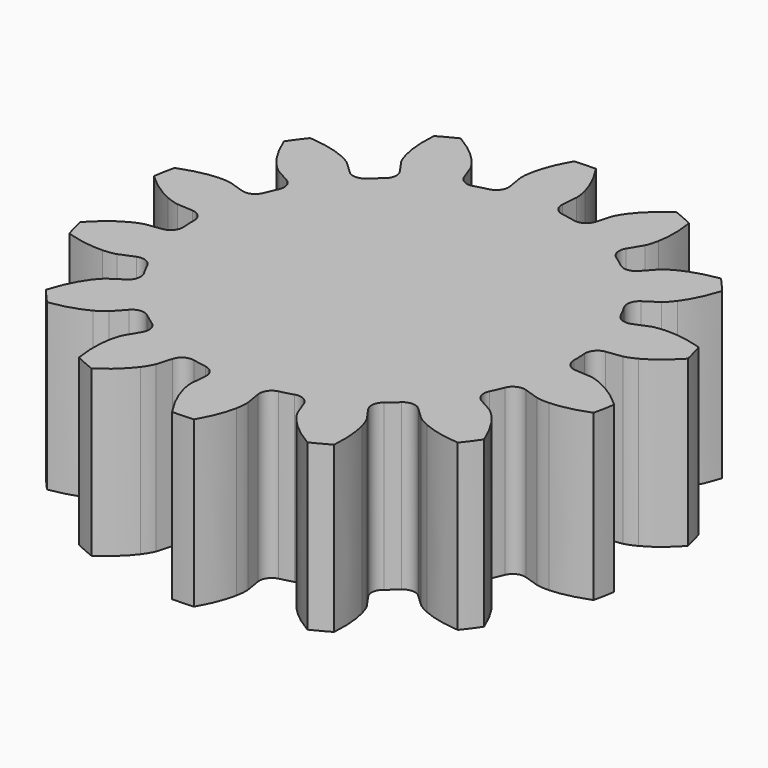
from build123d import *

# Parameters (mm, degrees)
EXTRUDE_DEPTH                             = 10
EXTRUDE_ONTO_INVOLUTEGEAR_PLACEMENT_ANGLE = 15


with BuildPart() as part:
    # InvoluteGear as drawn → Extrude (new)
    with BuildSketch(Plane.XY):
        with BuildLine():
            Line((12.128386, -1.549923), (13.082275, -1.670238))
            add(Edge.make_bspline(
                [(13.082275, -1.670238), (13.167746, -1.67511), (13.424581, -1.677898), (13.855033, -1.581167)],
                knots=[0, 0, 0, 0, 1, 1, 1, 1], degree=3))
            add(Edge.make_bspline(
                [(13.855033, -1.581167), (14.368332, -1.463306), (15.10193, -1.204902), (15.989529, -0.64476)],
                knots=[0, 0, 0, 0, 1, 1, 1, 1], degree=3))
            ThreePointArc((15.989529, -0.64476), (16.002525, 0), (15.989529, 0.64476))
            add(Edge.make_bspline(
                [(15.989529, 0.64476), (15.10193, 1.204902), (14.368332, 1.463306), (13.855033, 1.581167)],
                knots=[0, 0, 0, 0, 1, 1, 1, 1], degree=3))
            add(Edge.make_bspline(
                [(13.855033, 1.581167), (13.424581, 1.677898), (13.167746, 1.67511), (13.082275, 1.670238)],
                knots=[0, 0, 0, 0, 1, 1, 1, 1], degree=3))
            Line((13.082275, 1.670238), (12.128386, 1.549923))
            ThreePointArc((12.128386, 1.549923), (11.593406, 1.686434), (11.296827, 2.152137))
            ThreePointArc((11.296827, 2.152137), (11.211671, 2.558991), (11.111867, 2.962501))
            ThreePointArc((11.111867, 2.962501), (11.177014, 3.510766), (11.599784, 3.865877))
            Line((11.599784, 3.865877), (12.511412, 4.171354))
            add(Edge.make_bspline(
                [(12.511412, 4.171354), (12.590532, 4.20405), (12.823143, 4.312974), (13.168996, 4.586891)],
                knots=[0, 0, 0, 0, 1, 1, 1, 1], degree=3))
            add(Edge.make_bspline(
                [(13.168996, 4.586891), (13.580324, 4.915793), (14.129156, 5.466903), (14.685819, 6.356688)],
                knots=[0, 0, 0, 0, 1, 1, 1, 1], degree=3))
            ThreePointArc((14.685819, 6.356688), (14.417777, 6.943235), (14.126317, 7.518505))
            add(Edge.make_bspline(
                [(14.126317, 7.518505), (13.083581, 7.638061), (12.310515, 7.552578), (11.79691, 7.436055)],
                knots=[0, 0, 0, 0, 1, 1, 1, 1], degree=3))
            add(Edge.make_bspline(
                [(11.79691, 7.436055), (11.367117, 7.336442), (11.136927, 7.222493), (11.062033, 7.181019)],
                knots=[0, 0, 0, 0, 1, 1, 1, 1], degree=3))
            Line((11.062033, 7.181019), (10.254811, 6.658742))
            ThreePointArc((10.254811, 6.658742), (9.713582, 6.549615), (9.244312, 6.840518))
            ThreePointArc((9.244312, 6.840518), (8.991062, 7.170133), (8.726065, 7.49038))
            ThreePointArc((8.726065, 7.49038), (8.546878, 8.012615), (8.773704, 8.515992))
            Line((8.773704, 8.515992), (9.46251, 9.186758))
            add(Edge.make_bspline(
                [(9.46251, 9.186758), (9.519609, 9.250545), (9.681923, 9.449608), (9.874677, 9.846459)],
                knots=[0, 0, 0, 0, 1, 1, 1, 1], degree=3))
            add(Edge.make_bspline(
                [(9.874677, 9.846459), (10.102567, 10.321258), (10.357929, 11.05592), (10.473402, 12.099116)],
                knots=[0, 0, 0, 0, 1, 1, 1, 1], degree=3))
            ThreePointArc((10.473402, 12.099116), (9.977411, 12.511278), (9.465214, 12.903118))
            add(Edge.make_bspline(
                [(9.465214, 12.903118), (8.473869, 12.558408), (7.81445, 12.14597), (7.402266, 11.818142)],
                knots=[0, 0, 0, 0, 1, 1, 1, 1], degree=3))
            add(Edge.make_bspline(
                [(7.402266, 11.818142), (7.058256, 11.541913), (6.900302, 11.339372), (6.85082, 11.269511)],
                knots=[0, 0, 0, 0, 1, 1, 1, 1], degree=3))
            Line((6.85082, 11.269511), (6.350146, 10.448715))
            ThreePointArc((6.350146, 10.448715), (5.909863, 10.115564), (5.360848, 10.174051))
            ThreePointArc((5.360848, 10.174051), (4.989663, 10.361142), (4.611959, 10.534697))
            ThreePointArc((4.611959, 10.534697), (4.223927, 10.927468), (4.209883, 11.479411))
            Line((4.209883, 11.479411), (4.539442, 12.382612))
            add(Edge.make_bspline(
                [(4.539442, 12.382612), (4.56321, 12.464857), (4.62308, 12.714632), (4.624558, 13.155815)],
                knots=[0, 0, 0, 0, 1, 1, 1, 1], degree=3))
            add(Edge.make_bspline(
                [(4.624558, 13.155815), (4.623872, 13.682472), (4.535188, 14.455177), (4.1866, 15.445165)],
                knots=[0, 0, 0, 0, 1, 1, 1, 1], degree=3))
            ThreePointArc((4.1866, 15.445165), (3.560897, 15.601309), (2.92941, 15.732111))
            add(Edge.make_bspline(
                [(2.92941, 15.732111), (2.185803, 14.991409), (1.770637, 14.333704), (1.541511, 13.859501)],
                knots=[0, 0, 0, 0, 1, 1, 1, 1], degree=3))
            add(Edge.make_bspline(
                [(1.541511, 13.859501), (1.351421, 13.461367), (1.296988, 13.21035), (1.282718, 13.125938)],
                knots=[0, 0, 0, 0, 1, 1, 1, 1], degree=3))
            Line((1.282718, 13.125938), (1.187756, 12.169192))
            ThreePointArc((1.187756, 12.169192), (0.935624, 11.678002), (0.415602, 11.492488))
            ThreePointArc((0.415602, 11.492488), (0, 11.5), (-0.415602, 11.492488))
            ThreePointArc((-0.415602, 11.492488), (-0.935624, 11.678002), (-1.187756, 12.169192))
            Line((-1.187756, 12.169192), (-1.282718, 13.125938))
            add(Edge.make_bspline(
                [(-1.282718, 13.125938), (-1.296988, 13.21035), (-1.351421, 13.461367), (-1.541511, 13.859501)],
                knots=[0, 0, 0, 0, 1, 1, 1, 1], degree=3))
            add(Edge.make_bspline(
                [(-1.541511, 13.859501), (-1.770637, 14.333704), (-2.185803, 14.991409), (-2.92941, 15.732111)],
                knots=[0, 0, 0, 0, 1, 1, 1, 1], degree=3))
            ThreePointArc((-2.92941, 15.732111), (-3.560897, 15.601309), (-4.1866, 15.445165))
            add(Edge.make_bspline(
                [(-4.1866, 15.445165), (-4.535188, 14.455177), (-4.623872, 13.682472), (-4.624558, 13.155815)],
                knots=[0, 0, 0, 0, 1, 1, 1, 1], degree=3))
            add(Edge.make_bspline(
                [(-4.624558, 13.155815), (-4.62308, 12.714632), (-4.56321, 12.464857), (-4.539442, 12.382612)],
                knots=[0, 0, 0, 0, 1, 1, 1, 1], degree=3))
            Line((-4.539442, 12.382612), (-4.209883, 11.479411))
            ThreePointArc((-4.209883, 11.479411), (-4.223927, 10.927468), (-4.611959, 10.534697))
            ThreePointArc((-4.611959, 10.534697), (-4.989663, 10.361142), (-5.360848, 10.174051))
            ThreePointArc((-5.360848, 10.174051), (-5.909863, 10.115564), (-6.350146, 10.448715))
            Line((-6.350146, 10.448715), (-6.85082, 11.269511))
            add(Edge.make_bspline(
                [(-6.85082, 11.269511), (-6.900302, 11.339372), (-7.058256, 11.541913), (-7.402266, 11.818142)],
                knots=[0, 0, 0, 0, 1, 1, 1, 1], degree=3))
            add(Edge.make_bspline(
                [(-7.402266, 11.818142), (-7.81445, 12.14597), (-8.473869, 12.558408), (-9.465214, 12.903118)],
                knots=[0, 0, 0, 0, 1, 1, 1, 1], degree=3))
            ThreePointArc((-9.465214, 12.903118), (-9.977411, 12.511278), (-10.473402, 12.099116))
            add(Edge.make_bspline(
                [(-10.473402, 12.099116), (-10.357929, 11.05592), (-10.102567, 10.321258), (-9.874677, 9.846459)],
                knots=[0, 0, 0, 0, 1, 1, 1, 1], degree=3))
            add(Edge.make_bspline(
                [(-9.874677, 9.846459), (-9.681923, 9.449608), (-9.519609, 9.250545), (-9.46251, 9.186758)],
                knots=[0, 0, 0, 0, 1, 1, 1, 1], degree=3))
            Line((-9.46251, 9.186758), (-8.773704, 8.515992))
            ThreePointArc((-8.773704, 8.515992), (-8.546878, 8.012615), (-8.726065, 7.49038))
            ThreePointArc((-8.726065, 7.49038), (-8.991062, 7.170133), (-9.244312, 6.840518))
            ThreePointArc((-9.244312, 6.840518), (-9.713582, 6.549615), (-10.254811, 6.658742))
            Line((-10.254811, 6.658742), (-11.062033, 7.181019))
            add(Edge.make_bspline(
                [(-11.062033, 7.181019), (-11.136927, 7.222493), (-11.367117, 7.336442), (-11.79691, 7.436055)],
                knots=[0, 0, 0, 0, 1, 1, 1, 1], degree=3))
            add(Edge.make_bspline(
                [(-11.79691, 7.436055), (-12.310515, 7.552578), (-13.083581, 7.638061), (-14.126317, 7.518505)],
                knots=[0, 0, 0, 0, 1, 1, 1, 1], degree=3))
            ThreePointArc((-14.126317, 7.518505), (-14.417777, 6.943235), (-14.685819, 6.356688))
            add(Edge.make_bspline(
                [(-14.685819, 6.356688), (-14.129156, 5.466903), (-13.580324, 4.915793), (-13.168996, 4.586891)],
                knots=[0, 0, 0, 0, 1, 1, 1, 1], degree=3))
            add(Edge.make_bspline(
                [(-13.168996, 4.586891), (-12.823143, 4.312974), (-12.590532, 4.20405), (-12.511412, 4.171354)],
                knots=[0, 0, 0, 0, 1, 1, 1, 1], degree=3))
            Line((-12.511412, 4.171354), (-11.599784, 3.865877))
            ThreePointArc((-11.599784, 3.865877), (-11.177014, 3.510766), (-11.111867, 2.962501))
            ThreePointArc((-11.111867, 2.962501), (-11.211671, 2.558991), (-11.296827, 2.152137))
            ThreePointArc((-11.296827, 2.152137), (-11.593406, 1.686434), (-12.128386, 1.549923))
            Line((-12.128386, 1.549923), (-13.082275, 1.670238))
            add(Edge.make_bspline(
                [(-13.082275, 1.670238), (-13.167746, 1.67511), (-13.424581, 1.677898), (-13.855033, 1.581167)],
                knots=[0, 0, 0, 0, 1, 1, 1, 1], degree=3))
            add(Edge.make_bspline(
                [(-13.855033, 1.581167), (-14.368332, 1.463306), (-15.10193, 1.204902), (-15.989529, 0.64476)],
                knots=[0, 0, 0, 0, 1, 1, 1, 1], degree=3))
            ThreePointArc((-15.989529, 0.64476), (-16.002525, 0), (-15.989529, -0.64476))
            add(Edge.make_bspline(
                [(-15.989529, -0.64476), (-15.10193, -1.204902), (-14.368332, -1.463306), (-13.855033, -1.581167)],
                knots=[0, 0, 0, 0, 1, 1, 1, 1], degree=3))
            add(Edge.make_bspline(
                [(-13.855033, -1.581167), (-13.424581, -1.677898), (-13.167746, -1.67511), (-13.082275, -1.670238)],
                knots=[0, 0, 0, 0, 1, 1, 1, 1], degree=3))
            Line((-13.082275, -1.670238), (-12.128386, -1.549923))
            ThreePointArc((-12.128386, -1.549923), (-11.593406, -1.686434), (-11.296827, -2.152137))
            ThreePointArc((-11.296827, -2.152137), (-11.211671, -2.558991), (-11.111867, -2.962501))
            ThreePointArc((-11.111867, -2.962501), (-11.177014, -3.510766), (-11.599784, -3.865877))
            Line((-11.599784, -3.865877), (-12.511412, -4.171354))
            add(Edge.make_bspline(
                [(-12.511412, -4.171354), (-12.590532, -4.20405), (-12.823143, -4.312974), (-13.168996, -4.586891)],
                knots=[0, 0, 0, 0, 1, 1, 1, 1], degree=3))
            add(Edge.make_bspline(
                [(-13.168996, -4.586891), (-13.580324, -4.915793), (-14.129156, -5.466903), (-14.685819, -6.356688)],
                knots=[0, 0, 0, 0, 1, 1, 1, 1], degree=3))
            ThreePointArc((-14.685819, -6.356688), (-14.417777, -6.943235), (-14.126317, -7.518505))
            add(Edge.make_bspline(
                [(-14.126317, -7.518505), (-13.083581, -7.638061), (-12.310515, -7.552578), (-11.79691, -7.436055)],
                knots=[0, 0, 0, 0, 1, 1, 1, 1], degree=3))
            add(Edge.make_bspline(
                [(-11.79691, -7.436055), (-11.367117, -7.336442), (-11.136927, -7.222493), (-11.062033, -7.181019)],
                knots=[0, 0, 0, 0, 1, 1, 1, 1], degree=3))
            Line((-11.062033, -7.181019), (-10.254811, -6.658742))
            ThreePointArc((-10.254811, -6.658742), (-9.713582, -6.549615), (-9.244312, -6.840518))
            ThreePointArc((-9.244312, -6.840518), (-8.991062, -7.170133), (-8.726065, -7.49038))
            ThreePointArc((-8.726065, -7.49038), (-8.546878, -8.012615), (-8.773704, -8.515992))
            Line((-8.773704, -8.515992), (-9.46251, -9.186758))
            add(Edge.make_bspline(
                [(-9.46251, -9.186758), (-9.519609, -9.250545), (-9.681923, -9.449608), (-9.874677, -9.846459)],
                knots=[0, 0, 0, 0, 1, 1, 1, 1], degree=3))
            add(Edge.make_bspline(
                [(-9.874677, -9.846459), (-10.102567, -10.321258), (-10.357929, -11.05592), (-10.473402, -12.099116)],
                knots=[0, 0, 0, 0, 1, 1, 1, 1], degree=3))
            ThreePointArc((-10.473402, -12.099116), (-9.977411, -12.511278), (-9.465214, -12.903118))
            add(Edge.make_bspline(
                [(-9.465214, -12.903118), (-8.473869, -12.558408), (-7.81445, -12.14597), (-7.402266, -11.818142)],
                knots=[0, 0, 0, 0, 1, 1, 1, 1], degree=3))
            add(Edge.make_bspline(
                [(-7.402266, -11.818142), (-7.058256, -11.541913), (-6.900302, -11.339372), (-6.85082, -11.269511)],
                knots=[0, 0, 0, 0, 1, 1, 1, 1], degree=3))
            Line((-6.85082, -11.269511), (-6.350146, -10.448715))
            ThreePointArc((-6.350146, -10.448715), (-5.909863, -10.115564), (-5.360848, -10.174051))
            ThreePointArc((-5.360848, -10.174051), (-4.989663, -10.361142), (-4.611959, -10.534697))
            ThreePointArc((-4.611959, -10.534697), (-4.223927, -10.927468), (-4.209883, -11.479411))
            Line((-4.209883, -11.479411), (-4.539442, -12.382612))
            add(Edge.make_bspline(
                [(-4.539442, -12.382612), (-4.56321, -12.464857), (-4.62308, -12.714632), (-4.624558, -13.155815)],
                knots=[0, 0, 0, 0, 1, 1, 1, 1], degree=3))
            add(Edge.make_bspline(
                [(-4.624558, -13.155815), (-4.623872, -13.682472), (-4.535188, -14.455177), (-4.1866, -15.445165)],
                knots=[0, 0, 0, 0, 1, 1, 1, 1], degree=3))
            ThreePointArc((-4.1866, -15.445165), (-3.560897, -15.601309), (-2.92941, -15.732111))
            add(Edge.make_bspline(
                [(-2.92941, -15.732111), (-2.185803, -14.991409), (-1.770637, -14.333704), (-1.541511, -13.859501)],
                knots=[0, 0, 0, 0, 1, 1, 1, 1], degree=3))
            add(Edge.make_bspline(
                [(-1.541511, -13.859501), (-1.351421, -13.461367), (-1.296988, -13.21035), (-1.282718, -13.125938)],
                knots=[0, 0, 0, 0, 1, 1, 1, 1], degree=3))
            Line((-1.282718, -13.125938), (-1.187756, -12.169192))
            ThreePointArc((-1.187756, -12.169192), (-0.935624, -11.678002), (-0.415602, -11.492488))
            ThreePointArc((-0.415602, -11.492488), (0, -11.5), (0.415602, -11.492488))
            ThreePointArc((0.415602, -11.492488), (0.935624, -11.678002), (1.187756, -12.169192))
            Line((1.187756, -12.169192), (1.282718, -13.125938))
            add(Edge.make_bspline(
                [(1.282718, -13.125938), (1.296988, -13.21035), (1.351421, -13.461367), (1.541511, -13.859501)],
                knots=[0, 0, 0, 0, 1, 1, 1, 1], degree=3))
            add(Edge.make_bspline(
                [(1.541511, -13.859501), (1.770637, -14.333704), (2.185803, -14.991409), (2.92941, -15.732111)],
                knots=[0, 0, 0, 0, 1, 1, 1, 1], degree=3))
            ThreePointArc((2.92941, -15.732111), (3.560897, -15.601309), (4.1866, -15.445165))
            add(Edge.make_bspline(
                [(4.1866, -15.445165), (4.535188, -14.455177), (4.623872, -13.682472), (4.624558, -13.155815)],
                knots=[0, 0, 0, 0, 1, 1, 1, 1], degree=3))
            add(Edge.make_bspline(
                [(4.624558, -13.155815), (4.62308, -12.714632), (4.56321, -12.464857), (4.539442, -12.382612)],
                knots=[0, 0, 0, 0, 1, 1, 1, 1], degree=3))
            Line((4.539442, -12.382612), (4.209883, -11.479411))
            ThreePointArc((4.209883, -11.479411), (4.223927, -10.927468), (4.611959, -10.534697))
            ThreePointArc((4.611959, -10.534697), (4.989663, -10.361142), (5.360848, -10.174051))
            ThreePointArc((5.360848, -10.174051), (5.909863, -10.115564), (6.350146, -10.448715))
            Line((6.350146, -10.448715), (6.85082, -11.269511))
            add(Edge.make_bspline(
                [(6.85082, -11.269511), (6.900302, -11.339372), (7.058256, -11.541913), (7.402266, -11.818142)],
                knots=[0, 0, 0, 0, 1, 1, 1, 1], degree=3))
            add(Edge.make_bspline(
                [(7.402266, -11.818142), (7.81445, -12.14597), (8.473869, -12.558408), (9.465214, -12.903118)],
                knots=[0, 0, 0, 0, 1, 1, 1, 1], degree=3))
            ThreePointArc((9.465214, -12.903118), (9.977411, -12.511278), (10.473402, -12.099116))
            add(Edge.make_bspline(
                [(10.473402, -12.099116), (10.357929, -11.05592), (10.102567, -10.321258), (9.874677, -9.846459)],
                knots=[0, 0, 0, 0, 1, 1, 1, 1], degree=3))
            add(Edge.make_bspline(
                [(9.874677, -9.846459), (9.681923, -9.449608), (9.519609, -9.250545), (9.46251, -9.186758)],
                knots=[0, 0, 0, 0, 1, 1, 1, 1], degree=3))
            Line((9.46251, -9.186758), (8.773704, -8.515992))
            ThreePointArc((8.773704, -8.515992), (8.546878, -8.012615), (8.726065, -7.49038))
            ThreePointArc((8.726065, -7.49038), (8.991062, -7.170133), (9.244312, -6.840518))
            ThreePointArc((9.244312, -6.840518), (9.713582, -6.549615), (10.254811, -6.658742))
            Line((10.254811, -6.658742), (11.062033, -7.181019))
            add(Edge.make_bspline(
                [(11.062033, -7.181019), (11.136927, -7.222493), (11.367117, -7.336442), (11.79691, -7.436055)],
                knots=[0, 0, 0, 0, 1, 1, 1, 1], degree=3))
            add(Edge.make_bspline(
                [(11.79691, -7.436055), (12.310515, -7.552578), (13.083581, -7.638061), (14.126317, -7.518505)],
                knots=[0, 0, 0, 0, 1, 1, 1, 1], degree=3))
            ThreePointArc((14.126317, -7.518505), (14.417777, -6.943235), (14.685819, -6.356688))
            add(Edge.make_bspline(
                [(14.685819, -6.356688), (14.129156, -5.466903), (13.580324, -4.915793), (13.168996, -4.586891)],
                knots=[0, 0, 0, 0, 1, 1, 1, 1], degree=3))
            add(Edge.make_bspline(
                [(13.168996, -4.586891), (12.823143, -4.312974), (12.590532, -4.20405), (12.511412, -4.171354)],
                knots=[0, 0, 0, 0, 1, 1, 1, 1], degree=3))
            Line((12.511412, -4.171354), (11.599784, -3.865877))
            ThreePointArc((11.599784, -3.865877), (11.177014, -3.510766), (11.111867, -2.962501))
            ThreePointArc((11.111867, -2.962501), (11.211671, -2.558991), (11.296827, -2.152137))
            ThreePointArc((11.296827, -2.152137), (11.593406, -1.686434), (12.128386, -1.549923))
        make_face()
    extrude(amount=EXTRUDE_DEPTH)


with BuildPart() as part_1:
    # Extrude onto InvoluteGear placement: moved
    add(part.part.rotate(Axis((0, 0, 0), (0, 0, 1)), EXTRUDE_ONTO_INVOLUTEGEAR_PLACEMENT_ANGLE))


solid = part_1.part
